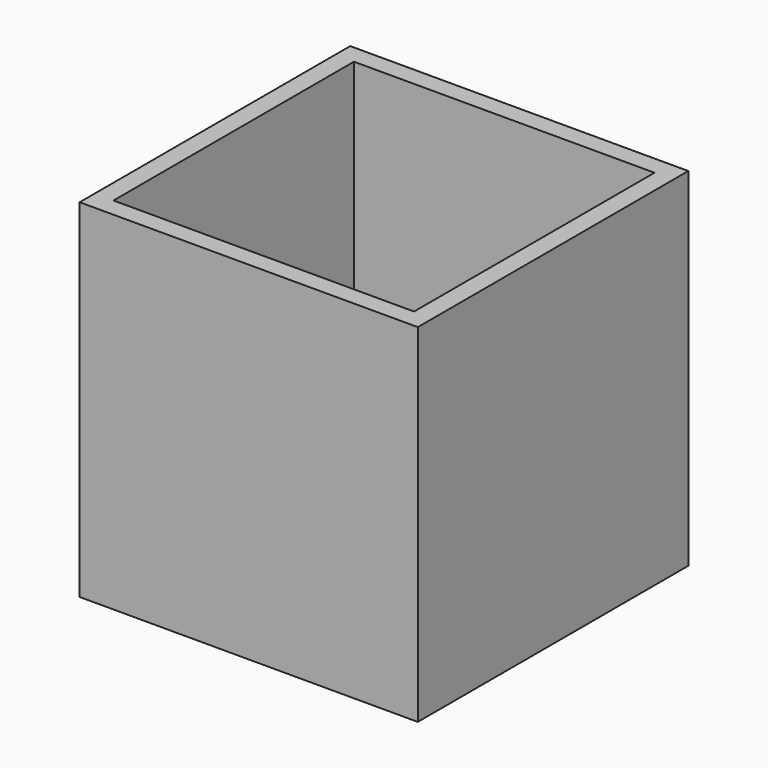
from build123d import *

# Parameters (mm, degrees)
F0_W     = 18
F0_H     = 18
F1_DEPTH = 18.5
F2_T     = -1
F4_D     = 1


with BuildPart() as f1:
    # F0 (on Top) → F1 (new body)
    with BuildSketch(Plane.XY):
        with Locations((7.472297, -17.565783)):
            Rectangle(F0_W, F0_H)
    extrude(amount=F1_DEPTH)

    # F2
    f2_openings = [f1.faces().sort_by_distance(p)[0] for p in [
        (7.472297, -17.565783, 18.5),
    ]]
    offset(amount=F2_T, openings=f2_openings)

    # F4 (through all)
    with Locations(Plane(origin=(0, 0, 0), x_dir=(1, 0, 0), z_dir=(0, 0, -1))):
        with Locations((12.472297, 22.565783), (7.472297, 17.565783), (2.472297, 12.565783), (7.472297, 12.565783), (12.472297, 12.565783), (12.472297, 17.565783), (2.472297, 17.565783), (2.472297, 22.565783), (7.472297, 22.565783)):
            Hole(F4_D / 2)


solid = f1.part
